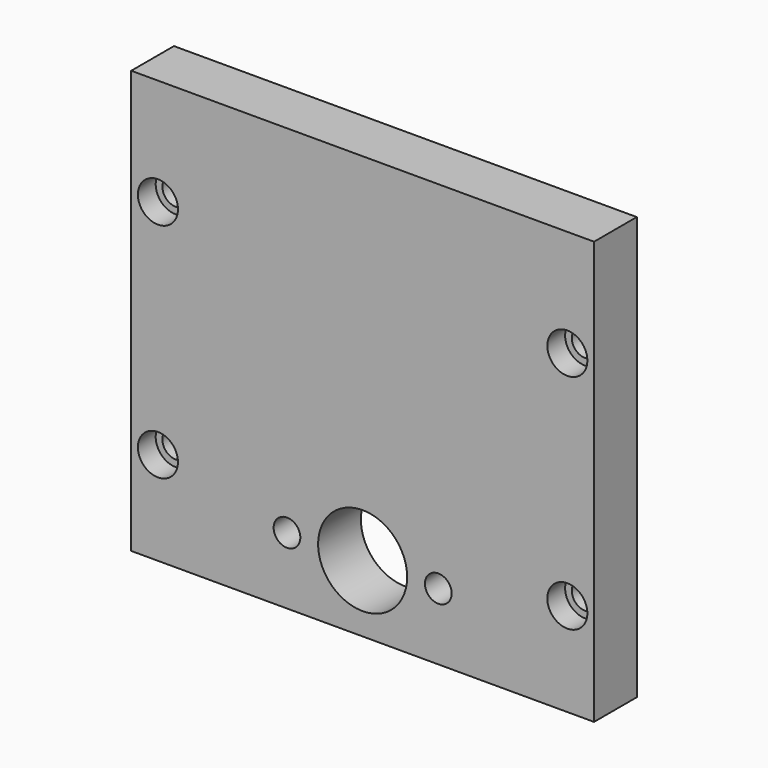
from build123d import *

# Parameters (mm, degrees)
F0_W     = 104
F0_H     = 95
F0_R     = 3
F0_R_2   = 10
F1_DEPTH = 12
F2_R     = 4.5
F3_DEPTH = 5


with BuildPart() as f1:
    # F0 (on Front) → F1 (new body)
    with BuildSketch(Plane.XZ):
        with Locations((52, 47.5)):
            Rectangle(F0_W, F0_H)
        with Locations((6, 21)):
            Circle(F0_R, mode=Mode.SUBTRACT)
        with Locations((35, 15)):
            Circle(F0_R, mode=Mode.SUBTRACT)
        with Locations((52, 15)):
            Circle(F0_R_2, mode=Mode.SUBTRACT)
        with Locations((69, 15)):
            Circle(F0_R, mode=Mode.SUBTRACT)
        with Locations((98, 21)):
            Circle(F0_R, mode=Mode.SUBTRACT)
        with Locations((6, 71)):
            Circle(F0_R, mode=Mode.SUBTRACT)
        with Locations((98, 71)):
            Circle(F0_R, mode=Mode.SUBTRACT)
    extrude(amount=F1_DEPTH)

    # F2 (on face) → F3 (cut)
    with BuildSketch(Plane.XZ.offset(12)):
        with Locations((6, 71)):
            Circle(F2_R)
        with Locations((98, 71)):
            Circle(F2_R)
        with Locations((98, 21)):
            Circle(F2_R)
        with Locations((6, 21)):
            Circle(F2_R)
    extrude(amount=-F3_DEPTH, mode=Mode.SUBTRACT)


solid = f1.part
